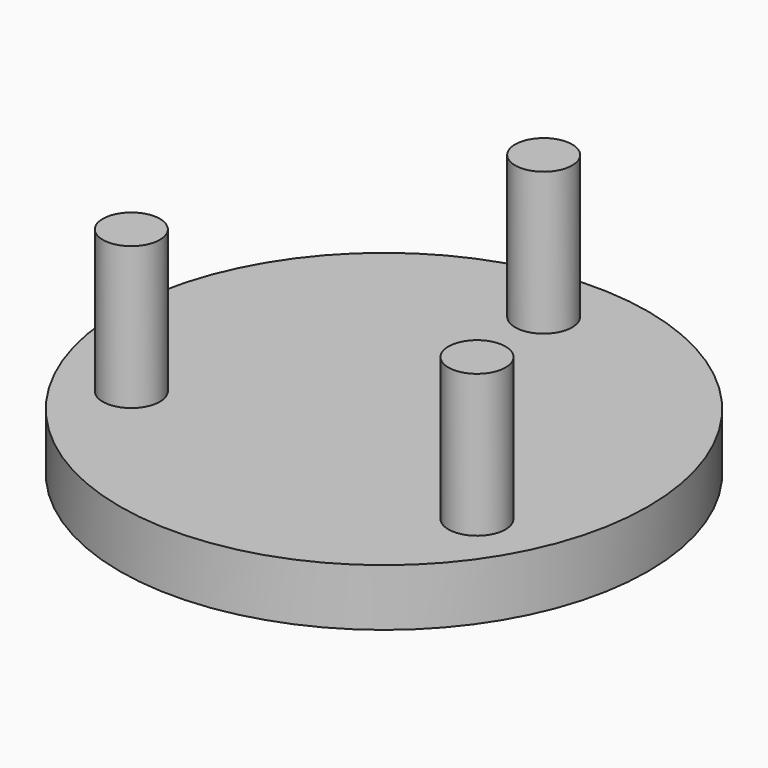
from build123d import *

# Parameters (mm, degrees)
F0_R     = 46.318814
F1_DEPTH = 5
F2_R     = 5
F3_DEPTH = 25


with BuildPart() as f1:
    # F0 (on Top) → F1 (new body, symmetric)
    with BuildSketch(Plane.XY):
        Circle(F0_R)
    extrude(amount=F1_DEPTH, both=True)

    # F2 (on face) → F3 (join)
    with BuildSketch(Plane.XY.offset(5)):
        with Locations((0, 35)):
            Circle(F2_R)
        with Locations((-30.310889, -17.5)):
            Circle(F2_R)
        with Locations((30.310889, -17.5)):
            Circle(F2_R)
    extrude(amount=F3_DEPTH)


solid = f1.part
